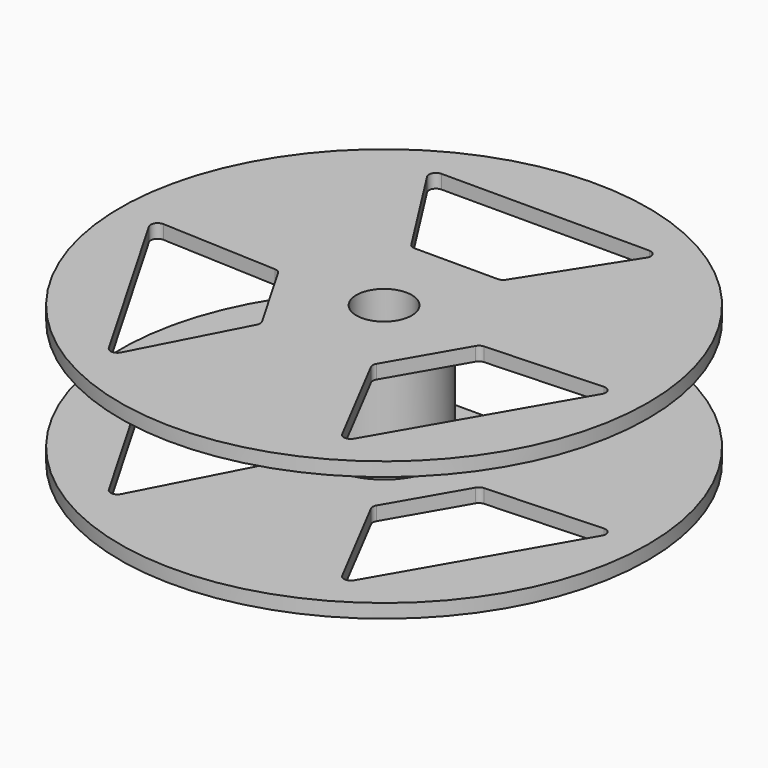
from build123d import *

# Parameters (mm, degrees)
SKETCH003_R        = 38.1
PAD003_DEPTH       = 2
SKETCH004_R        = 8
PAD004_DEPTH       = 16
SKETCH005_R        = 38.1
PAD005_DEPTH       = 2
POCKET_DEPTH       = 239.207569
POLARPATTERN_COUNT = 3
SKETCH007_R        = 4
POCKET001_DEPTH    = 20.001


with BuildPart() as part:
    # Sketch003 → Pad003 (new body)
    with BuildSketch(Plane.XY):
        Circle(SKETCH003_R)
    extrude(amount=PAD003_DEPTH)

    # Sketch004 (on Face3 of Pad003) → Pad004 (join)
    with BuildSketch(Plane.XY.offset(2)):
        Circle(SKETCH004_R)
    extrude(amount=PAD004_DEPTH)

    # Sketch005 (on Face5 of Pad004) → Pad005 (join)
    with BuildSketch(Plane.XY.offset(18)):
        Circle(SKETCH005_R)
    extrude(amount=PAD005_DEPTH)

    # Sketch006 (on Face3 of Pad005) → Pocket (cut, through all)
    with BuildSketch(Plane.XY.offset(20)):
        with BuildLine():
            Line((-15, 29.1), (15, 29.1))
            ThreePointArc((15.842922, 27.561965), (15.876937, 28.580606), (15, 29.1))
            Line((15.842922, 27.561965), (6.842922, 13.461965))
            ThreePointArc((6, 13), (6.480606, 13.123063), (6.842922, 13.461965))
            Line((6, 13), (-6, 13))
            ThreePointArc((-6.842922, 13.461965), (-6.480606, 13.123063), (-6, 13))
            Line((-6.842922, 13.461965), (-15.842922, 27.561965))
            ThreePointArc((-15, 29.1), (-15.876937, 28.580606), (-15.842922, 27.561965))
        make_face()
    pocket = extrude(amount=-POCKET_DEPTH, mode=Mode.SUBTRACT)

    # PolarPattern: Pocket ×3 about axis
    polarpattern_axis = Axis((0, 0, 20), (0, 0, 1))
    for i in range(1, POLARPATTERN_COUNT):
        add(pocket.rotate(polarpattern_axis, i * 360 / POLARPATTERN_COUNT), mode=Mode.SUBTRACT)

    # Sketch007 (on Face3 of PolarPattern) → Pocket001 (cut, through all)
    with BuildSketch(Plane.XY.offset(20)):
        Circle(SKETCH007_R)
    extrude(amount=-POCKET001_DEPTH, mode=Mode.SUBTRACT)


with BuildPart() as part_1:
    # Body012 placement: moved
    add(part.part.moved(Location((-81, 129, 44))))


solid = part_1.part
